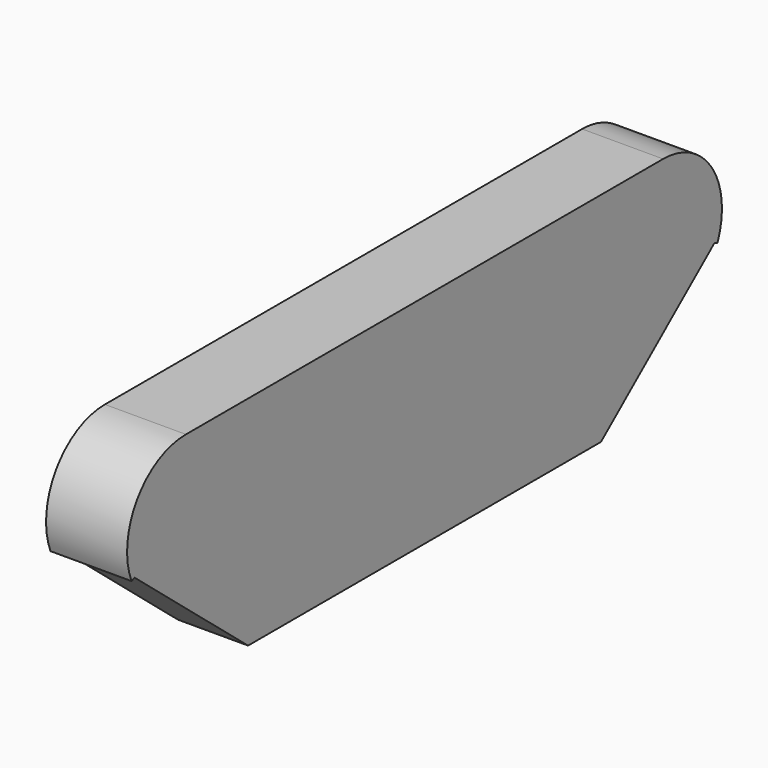
from build123d import *

# Parameters (mm, degrees)
F1_DEPTH = 5.588
F2_DEPTH = 4.826


with BuildPart() as f1:
    # F0 (on Right) → F1 (new body)
    with BuildSketch(Plane.YZ):
        with BuildLine():
            Line((-20.567739, 0.302803), (-20.567739, 5.372244))
            ThreePointArc((-20.567739, 5.372244), (-24.780512, 3.122693), (-25.254471, -1.629496))
            Line((-25.254471, -1.629496), (-24.99502, -1.522527))
            Line((-24.99502, -1.522527), (-20.567739, 0.302803))
        make_face()
        Polygon((20.567561, 5.372244), (-0.006439, 5.372244), (-20.567739, 5.372244), (-20.567739, 0.302803), (20.567561, 0.302803), align=None)
        with BuildLine():
            ThreePointArc((25.255113, -1.627505), (24.779735, 3.123587), (20.567561, 5.372244))
            Line((20.567561, 5.372244), (20.567561, 0.302803))
            Line((20.567561, 0.302803), (25.000183, -1.522527))
            Line((25.000183, -1.522527), (25.255113, -1.627505))
        make_face()
    extrude(amount=-F1_DEPTH)

    # F0 (on Right) → F2 (join)
    with BuildSketch(Plane.YZ):
        Polygon((20.567561, 0.302803), (-20.567739, 0.302803), (-24.99502, -1.522527), (-15.208358, -9.628492), (15.210344, -9.628492), (25.000183, -1.522527), align=None)
    extrude(amount=-F2_DEPTH)


solid = f1.part
